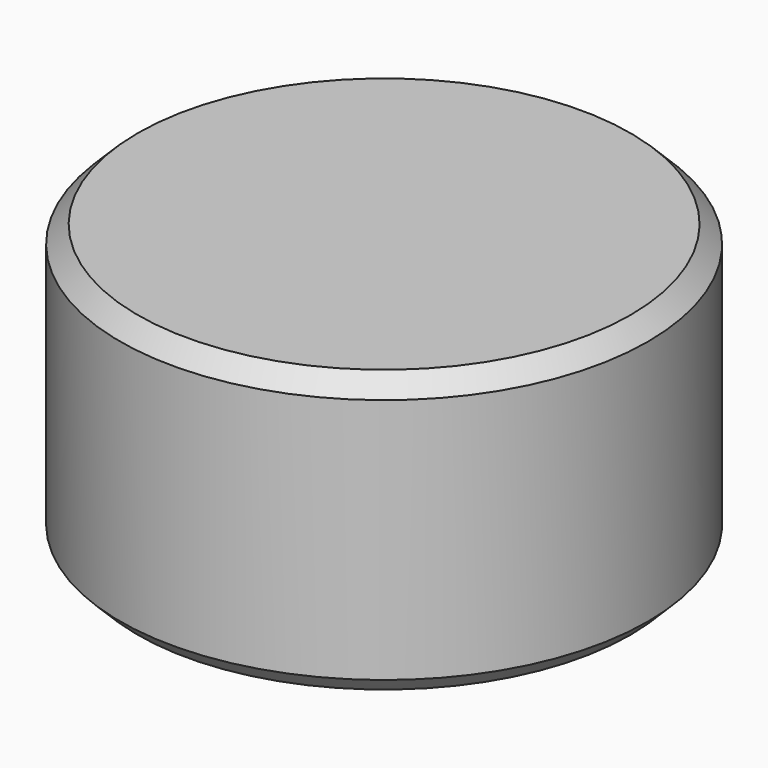
from build123d import *

# Parameters (mm, degrees)
CYLINDER033_R     = 30
CYLINDER033_DEPTH = 32
CHAMFER008_SIZE   = 2
CHAMFER009_SIZE   = 2


with BuildPart() as part:
    # Cylinder033 → Cylinder033 (join)
    with BuildSketch(Plane.XY.offset(-16)):
        Circle(CYLINDER033_R)
    extrude(amount=CYLINDER033_DEPTH)

    # Chamfer008
    chamfer008_edges = [part.edges().sort_by_distance(p)[0] for p in [
        (-30, 0, 16),
    ]]
    chamfer(chamfer008_edges, length=CHAMFER008_SIZE)

    # Chamfer009
    chamfer009_edges = [part.edges().sort_by_distance(p)[0] for p in [
        (-30, 0, -16),
    ]]
    chamfer(chamfer009_edges, length=CHAMFER009_SIZE)


solid = part.part
